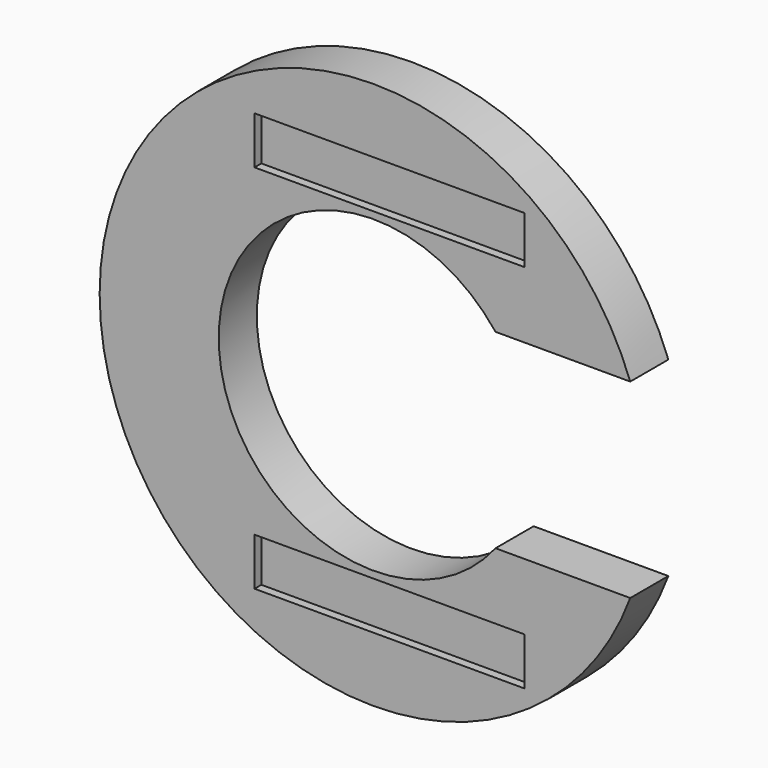
from build123d import *

# Parameters (mm, degrees)
F1_DEPTH = 12.7
F2_W     = 72.029851
F2_H     = 12.7
F3_DEPTH = 2.286


with BuildPart() as f1:
    # F0 (on Front) → F1 (new body)
    with BuildSketch(Plane.XZ):
        with BuildLine():
            Line((32.534069, 25.4), (68.465251, 25.4))
            ThreePointArc((68.465251, 25.4), (-73.025, 0), (68.465251, -25.4))
            Line((68.465251, -25.4), (32.534069, -25.4))
            ThreePointArc((32.534069, -25.4), (-41.275, 0), (32.534069, 25.4))
        make_face()
    extrude(amount=F1_DEPTH)

    # F2 (on face) → F3 (cut)
    with BuildSketch(Plane.XZ.offset(12.7)):
        with Locations((4.296481, 49.457254)):
            Rectangle(F2_W, F2_H)
        with Locations((4.296481, -49.457254)):
            Rectangle(F2_W, F2_H)
    extrude(amount=-F3_DEPTH, mode=Mode.SUBTRACT)


solid = f1.part
